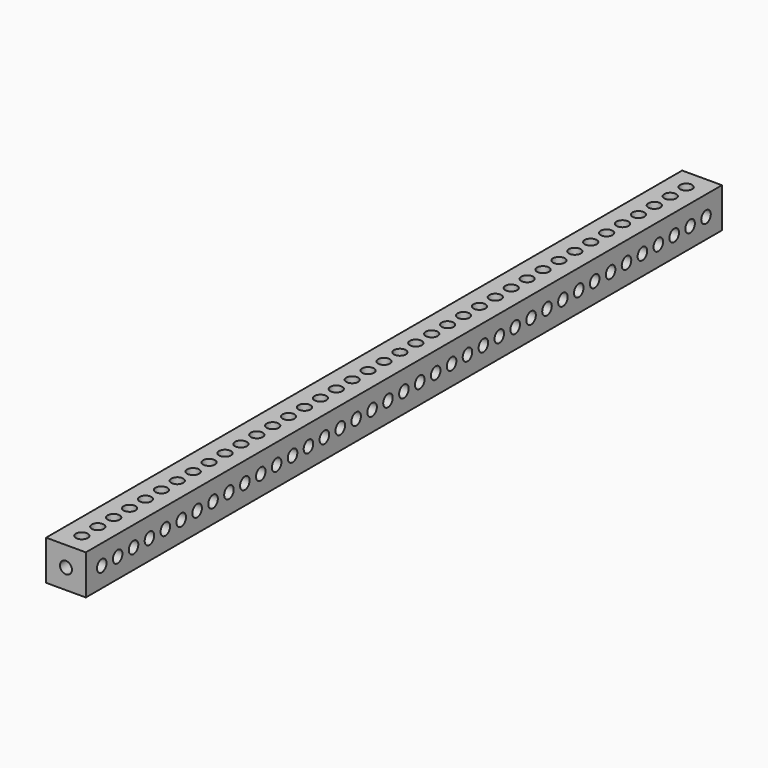
from build123d import *

# Parameters (mm, degrees)
F0_W     = 20
F0_H     = 20
F0_R     = 3
F1_DEPTH = 400
F2_R     = 3
F3_DEPTH = 20.001
F4_R     = 3
F5_DEPTH = 20.001


with BuildPart() as f1:
    # F0 (on Front) → F1 (new body)
    with BuildSketch(Plane.XZ):
        Rectangle(F0_W, F0_H)
        Circle(F0_R, mode=Mode.SUBTRACT)
    extrude(amount=F1_DEPTH)

    # F2 (on face) → F3 (cut, through all)
    with BuildSketch(Plane.XY.offset(10)):
        with Locations((0, -10)):
            Circle(F2_R)
        with Locations((0, -20)):
            Circle(F2_R)
        with Locations((0, -30)):
            Circle(F2_R)
        with Locations((0, -40)):
            Circle(F2_R)
        with Locations((0, -50)):
            Circle(F2_R)
        with Locations((0, -60)):
            Circle(F2_R)
        with Locations((0, -70)):
            Circle(F2_R)
        with Locations((0, -80)):
            Circle(F2_R)
        with Locations((0, -90)):
            Circle(F2_R)
        with Locations((0, -100)):
            Circle(F2_R)
        with Locations((0, -110)):
            Circle(F2_R)
        with Locations((0, -120)):
            Circle(F2_R)
        with Locations((0, -130)):
            Circle(F2_R)
        with Locations((0, -140)):
            Circle(F2_R)
        with Locations((0, -150)):
            Circle(F2_R)
        with Locations((0, -160)):
            Circle(F2_R)
        with Locations((0, -170)):
            Circle(F2_R)
        with Locations((0, -180)):
            Circle(F2_R)
        with Locations((0, -190)):
            Circle(F2_R)
        with Locations((0, -200)):
            Circle(F2_R)
        with Locations((0, -210)):
            Circle(F2_R)
        with Locations((0, -220)):
            Circle(F2_R)
        with Locations((0, -230)):
            Circle(F2_R)
        with Locations((0, -240)):
            Circle(F2_R)
        with Locations((0, -250)):
            Circle(F2_R)
        with Locations((0, -260)):
            Circle(F2_R)
        with Locations((0, -270)):
            Circle(F2_R)
        with Locations((0, -280)):
            Circle(F2_R)
        with Locations((0, -290)):
            Circle(F2_R)
        with Locations((0, -300)):
            Circle(F2_R)
        with Locations((0, -310)):
            Circle(F2_R)
        with Locations((0, -320)):
            Circle(F2_R)
        with Locations((0, -330)):
            Circle(F2_R)
        with Locations((0, -340)):
            Circle(F2_R)
        with Locations((0, -350)):
            Circle(F2_R)
        with Locations((0, -360)):
            Circle(F2_R)
        with Locations((0, -370)):
            Circle(F2_R)
        with Locations((0, -380)):
            Circle(F2_R)
        with Locations((0, -390)):
            Circle(F2_R)
    extrude(amount=-F3_DEPTH, mode=Mode.SUBTRACT)

    # F4 (on face) → F5 (cut, through all)
    with BuildSketch(Plane(origin=(-10, 0, 0), x_dir=(0, -1, 0), z_dir=(-1, 0, 0))):
        with Locations((10, 0)):
            Circle(F4_R)
        with Locations((20, 0)):
            Circle(F4_R)
        with Locations((30, 0)):
            Circle(F4_R)
        with Locations((40, 0)):
            Circle(F4_R)
        with Locations((50, 0)):
            Circle(F4_R)
        with Locations((60, 0)):
            Circle(F4_R)
        with Locations((70, 0)):
            Circle(F4_R)
        with Locations((80, 0)):
            Circle(F4_R)
        with Locations((90, 0)):
            Circle(F4_R)
        with Locations((100, 0)):
            Circle(F4_R)
        with Locations((110, 0)):
            Circle(F4_R)
        with Locations((120, 0)):
            Circle(F4_R)
        with Locations((130, 0)):
            Circle(F4_R)
        with Locations((140, 0)):
            Circle(F4_R)
        with Locations((150, 0)):
            Circle(F4_R)
        with Locations((160, 0)):
            Circle(F4_R)
        with Locations((170, 0)):
            Circle(F4_R)
        with Locations((180, 0)):
            Circle(F4_R)
        with Locations((190, 0)):
            Circle(F4_R)
        with Locations((200, 0)):
            Circle(F4_R)
        with Locations((210, 0)):
            Circle(F4_R)
        with Locations((220, 0)):
            Circle(F4_R)
        with Locations((230, 0)):
            Circle(F4_R)
        with Locations((240, 0)):
            Circle(F4_R)
        with Locations((250, 0)):
            Circle(F4_R)
        with Locations((260, 0)):
            Circle(F4_R)
        with Locations((270, 0)):
            Circle(F4_R)
        with Locations((280, 0)):
            Circle(F4_R)
        with Locations((290, 0)):
            Circle(F4_R)
        with Locations((300, 0)):
            Circle(F4_R)
        with Locations((310, 0)):
            Circle(F4_R)
        with Locations((320, 0)):
            Circle(F4_R)
        with Locations((330, 0)):
            Circle(F4_R)
        with Locations((340, 0)):
            Circle(F4_R)
        with Locations((350, 0)):
            Circle(F4_R)
        with Locations((360, 0)):
            Circle(F4_R)
        with Locations((370, 0)):
            Circle(F4_R)
        with Locations((380, 0)):
            Circle(F4_R)
        with Locations((390, 0)):
            Circle(F4_R)
    extrude(amount=-F5_DEPTH, mode=Mode.SUBTRACT)


solid = f1.part
